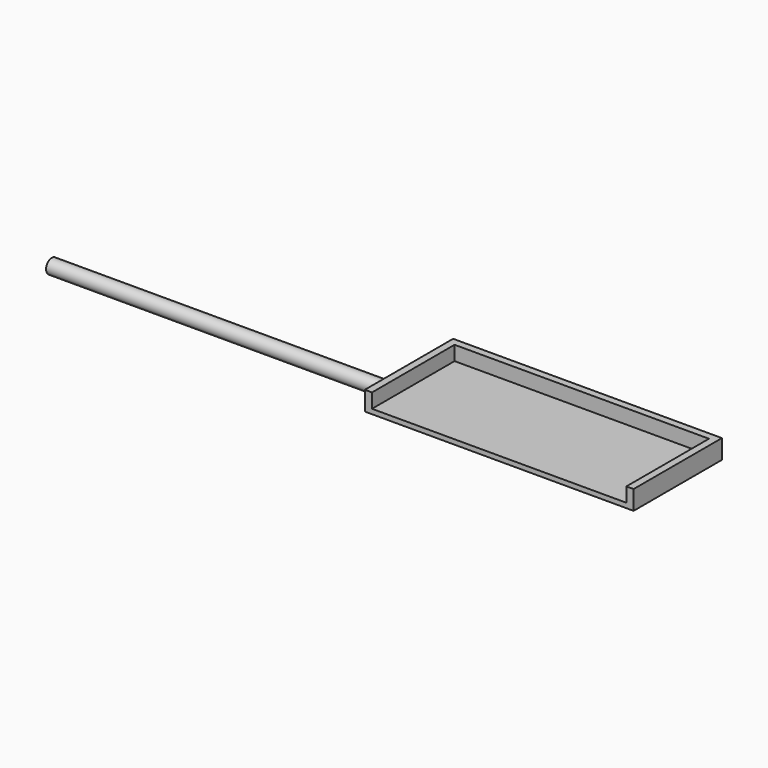
from build123d import *

# Parameters (mm, degrees)
SKETCH013_W     = 56
SKETCH013_H     = 23
PAD008_DEPTH    = 4
SKETCH014_W     = 53
SKETCH014_H     = 25.379599
POCKET005_DEPTH = 3
SKETCH015_R     = 1.5
PAD009_DEPTH    = 70


with BuildPart() as part:
    # Sketch013 → Pad008 (new body)
    with BuildSketch(Plane.XY):
        Rectangle(SKETCH013_W, SKETCH013_H)
    extrude(amount=PAD008_DEPTH)

    # Sketch014 (on Face6 of Pad008) → Pocket005 (cut)
    with BuildSketch(Plane.XY.offset(4)):
        with Locations((0, -2.689799)):
            Rectangle(SKETCH014_W, SKETCH014_H)
    extrude(amount=-POCKET005_DEPTH, mode=Mode.SUBTRACT)

    # Sketch015 (on Face2 of Pocket005) → Pad009 (join)
    with BuildSketch(Plane(origin=(-28, 0, 0), x_dir=(0, -1, 0), z_dir=(-1, 0, 0))):
        with Locations((5.5, 1.5)):
            Circle(SKETCH015_R)
    extrude(amount=PAD009_DEPTH)


with BuildPart() as part_1:
    # Body004 placement: moved
    add(part.part.moved(Location((0, -36.25, 0))))


solid = part_1.part
